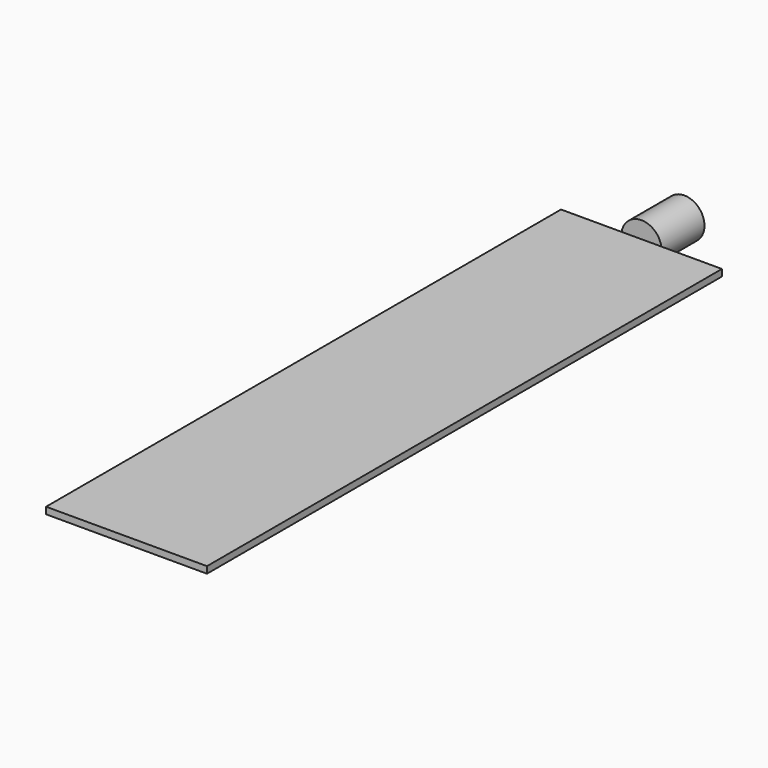
from build123d import *

# Parameters (mm, degrees)
F0_R     = 9.525
F1_DEPTH = 25.4
F2_R     = 6.35
F3_DEPTH = 19.05
F4_W     = 76.2
F4_H     = 3.175
F5_DEPTH = 304.8


with BuildPart() as f1:
    # F0 (on Front) → F1 (new body)
    with BuildSketch(Plane.XZ):
        Circle(F0_R)
    extrude(amount=-F1_DEPTH)

    # F2 (on face) → F3 (cut)
    with BuildSketch(Plane(origin=(0, 25.4, 0), x_dir=(-1, 0, 0), z_dir=(0, 1, 0))):
        Circle(F2_R)
    extrude(amount=-F3_DEPTH, mode=Mode.SUBTRACT)

    # F4 (on Front) → F5 (join)
    with BuildSketch(Plane.XZ):
        Rectangle(F4_W, F4_H)
    extrude(amount=F5_DEPTH)


solid = f1.part
